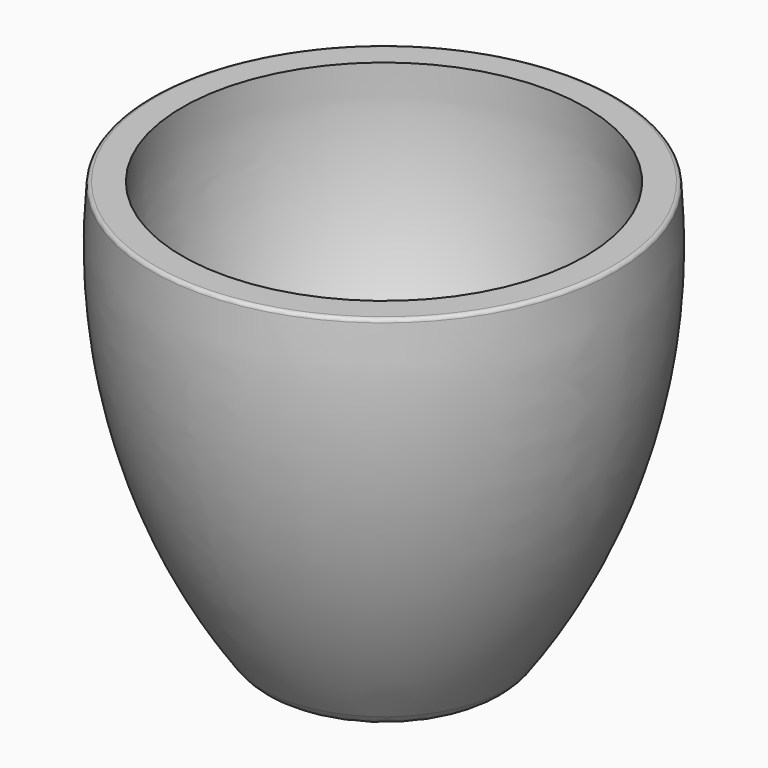
from build123d import *

# Parameters (mm, degrees)
F2_R = 5
F3_R = 0.5


with BuildPart() as f1:
    # F0 (on Front) → F1 (revolve)
    with BuildSketch(Plane.XZ):
        with BuildLine():
            Line((0, 7), (0, 0))
            Line((0, 0), (14.5, 0))
            ThreePointArc((14.5, 0), (27.791732, 26.415419), (30.579505, 55.854727))
            Line((30.579505, 55.854727), (26.579505, 55.854727))
            ThreePointArc((26.579505, 55.854727), (21.380725, 28.612259), (4, 7))
            Line((4, 7), (0, 7))
        make_face()
    revolve(axis=Axis((0, 0, 3.5), (0, 0, 1)))

    # F2
    f2_edges = [f1.edges().sort_by_distance(p)[0] for p in [
        (-14.5, 0, 0),
    ]]
    fillet(f2_edges, radius=F2_R)

    # F3
    f3_edges = [f1.edges().sort_by_distance(p)[0] for p in [
        (-30.579505, 0, 55.854727),
    ]]
    fillet(f3_edges, radius=F3_R)


solid = f1.part
